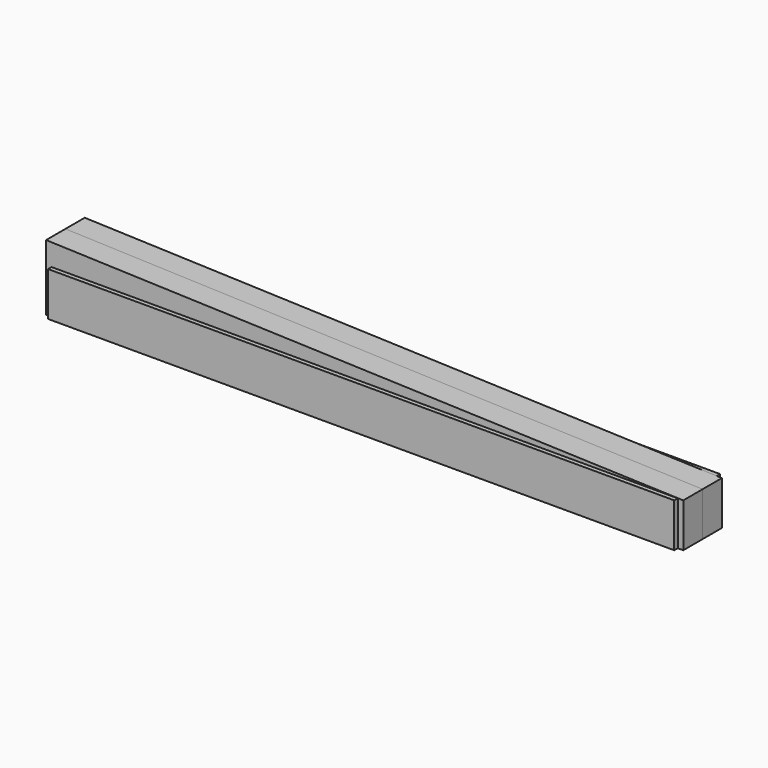
from build123d import *

# Parameters (mm, degrees)
F1_DEPTH = 22
F2_W     = 570
F2_H     = 40
F3_DEPTH = 4


with BuildPart() as f1:
    # F0 (on Front) → F1 (new body)
    with BuildSketch(Plane.XZ):
        Polygon((290, 20), (-290, 40), (-290, -20), (290, -20), align=None)
    extrude(amount=F1_DEPTH)

    # F2 (on face) → F3 (join)
    with BuildSketch(Plane(origin=(0, 0, 0), x_dir=(-1, 0, 0), z_dir=(0, 1, 0))):
        Rectangle(F2_W, F2_H)
    extrude(amount=F3_DEPTH)


with BuildPart() as f4_1:
    # F4: instance of F1
    add(f1.part.mirror(Plane(origin=(-19.333333, -22, 5.333333), x_dir=(1, 0, 0), z_dir=(0, -1, 0))))


solid = Compound([f1.part, f4_1.part])
